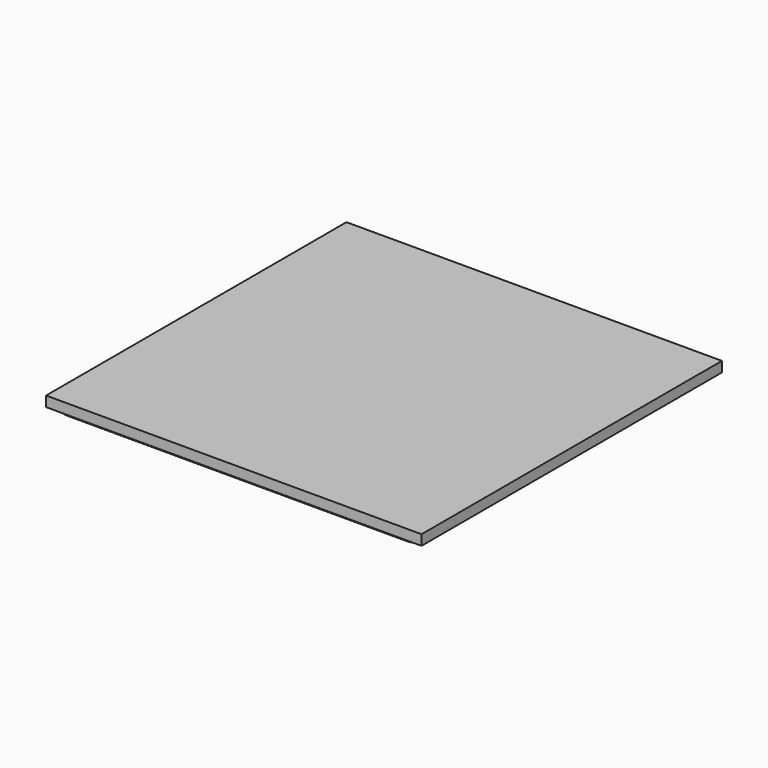
from build123d import *

# Parameters (mm, degrees)
SKETCH_W            = 110
SKETCH_H            = 110
PAD_DEPTH           = 3
PAD001_DEPTH        = 1
SKETCH002_R         = 6
SKETCH002_R_2       = 1.5
SKETCH002_R_3       = 5
SKETCH002_W         = 12
SKETCH002_H         = 7
SKETCH002_W_2       = 10
SKETCH002_H_2       = 1
PAD002_DEPTH        = 1
LINEARPATTERN_COUNT = 4
LINEARPATTERN_PITCH = 26.67
CHAMFER_SIZE        = 0.5


with BuildPart() as part:
    # Sketch → Pad (new body)
    with BuildSketch(Plane.XY):
        Rectangle(SKETCH_W, SKETCH_H)
    extrude(amount=PAD_DEPTH)

    # Sketch001 → Pad001 (join)
    with BuildSketch(Plane(origin=(0, 0, 0), x_dir=(1, 0, 0), z_dir=(0, 0, -1))):
        with BuildLine():
            Line((-49.8, 53.8), (49.8, 53.8))
            ThreePointArc((53.8, 49.8), (52.628427, 52.628427), (49.8, 53.8))
            Line((53.8, 49.8), (53.8, -49.8))
            ThreePointArc((49.8, -53.8), (52.628427, -52.628427), (53.8, -49.8))
            Line((49.8, -53.8), (-49.8, -53.8))
            ThreePointArc((-53.8, -49.8), (-52.628427, -52.628427), (-49.8, -53.8))
            Line((-53.8, -49.8), (-53.8, 49.8))
            ThreePointArc((-49.8, 53.8), (-52.628427, 52.628427), (-53.8, 49.8))
        make_face()
        with BuildLine():
            Line((-49.8, 52.8), (49.8, 52.8))
            ThreePointArc((52.8, 49.8), (51.92132, 51.92132), (49.8, 52.8))
            Line((52.8, 49.8), (52.8, -49.8))
            ThreePointArc((49.8, -52.8), (51.92132, -51.92132), (52.8, -49.8))
            Line((49.8, -52.8), (-49.8, -52.8))
            ThreePointArc((-52.8, -49.8), (-51.92132, -51.92132), (-49.8, -52.8))
            Line((-52.8, -49.8), (-52.8, 49.8))
            ThreePointArc((-49.8, 52.8), (-51.92132, 51.92132), (-52.8, 49.8))
        make_face(mode=Mode.SUBTRACT)
    extrude(amount=PAD001_DEPTH)

    # Sketch002 → Pad002 (join)
    with BuildSketch(Plane(origin=(0, 0, 0), x_dir=(1, 0, 0), z_dir=(0, 0, -1))):
        with Locations((-40.005, 40.005)):
            Circle(SKETCH002_R)
        with BuildLine():
            ThreePointArc((-36.42415, 36.515371), (-43.218938, 43.835222), (-37.190194, 35.872583))
            Line((-37.190194, 35.872583), (-38.925721, 37.940903))
            ThreePointArc((-38.888744, 38.363553), (-38.994766, 38.159886), (-38.925721, 37.940903))
            Line((-38.888744, 38.363553), (-38.582326, 38.620668))
            ThreePointArc((-38.159676, 38.583691), (-38.363343, 38.689713), (-38.582326, 38.620668))
            Line((-36.42415, 36.515371), (-38.159676, 38.583691))
        make_face(mode=Mode.SUBTRACT)
        with Locations((-40.005, 49.505)):
            Circle(SKETCH002_R_2)
        with Locations((-40.005, 25)):
            Circle(SKETCH002_R_2)
        with Locations((-40.005, -30.505)):
            Circle(SKETCH002_R_2)
        with Locations((-40.005, -40.005)):
            Circle(SKETCH002_R_3)
        with BuildLine():
            ThreePointArc((-39.255, 18.1), (-40.005, 18.85), (-40.755, 18.1))
            Line((-40.755, 18.1), (-40.755, 4.5))
            Line((-40.755, 4.5), (-39.255, 4.5))
            Line((-39.255, 18.1), (-39.255, 4.5))
        make_face()
        with BuildLine():
            ThreePointArc((-40.755, -18.1), (-40.005, -18.85), (-39.255, -18.1))
            Line((-39.255, -4.5), (-39.255, -18.1))
            Line((-40.755, -4.5), (-39.255, -4.5))
            Line((-40.755, -18.1), (-40.755, -4.5))
        make_face()
        with Locations((-40.005, 0)):
            Rectangle(SKETCH002_W, SKETCH002_H)
        with Locations((-40.005, 0)):
            Rectangle(SKETCH002_W_2, SKETCH002_H_2, mode=Mode.SUBTRACT)
    pad002 = extrude(amount=PAD002_DEPTH)

    # LinearPattern: Pad002 ×4
    with Locations(*[(i * LINEARPATTERN_PITCH, 0, 0) for i in range(1, LINEARPATTERN_COUNT)]):
        add(pad002)

    # Chamfer
    chamfer_edges = [part.edges().sort_by_distance(p)[0] for p in [
        (-37.291913, -37.549531, 0),
        (-43.218938, -43.835222, 0),
        (-38.057958, -36.906743, 0),
        (-38.994766, -38.159886, 0),
        (-38.735535, -38.49211, 0),
        (-38.363343, -38.689713, 0),
        (-10.621913, -37.549531, 0),
        (-16.548938, -43.835222, 0),
        (-11.387958, -36.906743, 0),
        (-12.324766, -38.159886, 0),
        (-12.065535, -38.49211, 0),
        (-11.693343, -38.689713, 0),
        (16.048087, -37.549531, 0),
        (10.121062, -43.835222, 0),
        (15.282042, -36.906743, 0),
        (14.345234, -38.159886, 0),
        (14.604465, -38.49211, 0),
        (14.976657, -38.689713, 0),
        (42.718087, -37.549531, 0),
        (36.791062, -43.835222, 0),
        (41.952042, -36.906743, 0),
        (41.015234, -38.159886, 0),
        (41.274465, -38.49211, 0),
        (41.646657, -38.689713, 0),
        (11.835, -25, 0),
        (-14.835, -25, 0),
        (-41.505, -25, 0),
        (-41.505, -49.505, 0),
        (-14.835, -49.505, 0),
        (11.835, -49.505, 0),
        (38.505, -49.505, 0),
        (7.335, -40.005, 0),
        (34.005, -40.005, 0),
        (-19.335, -40.005, 0),
        (-46.005, -40.005, 0),
        (-39.255, -11.3, 0),
        (-12.585, -11.3, 0),
        (-12.585, 11.3, 0),
        (-39.255, 11.3, 0),
        (14.085, 11.3, 0),
        (14.085, -11.3, 0),
        (40.755, -11.3, 0),
        (40.755, 11.3, 0),
        (-45.005, 40.005, 0),
        (-41.505, 30.505, 0),
        (-14.835, 30.505, 0),
        (-18.335, 40.005, 0),
        (8.335, 40.005, 0),
        (11.835, 30.505, 0),
        (38.505, 30.505, 0),
        (35.005, 40.005, 0),
        (-52.8, 0, 0),
        (53.8, 0, 0),
    ]]
    chamfer(chamfer_edges, length=CHAMFER_SIZE)


solid = part.part
